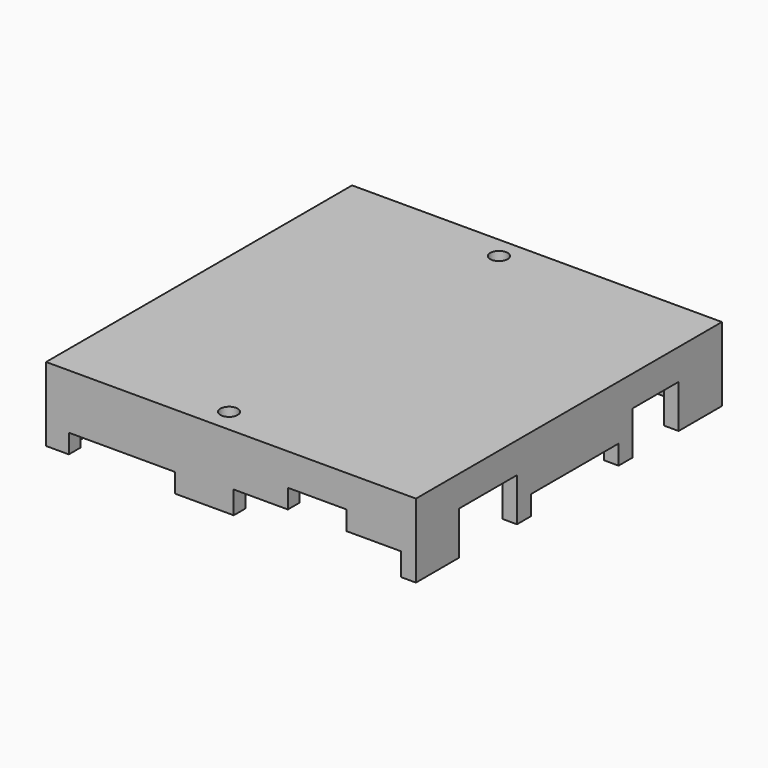
from build123d import *

# Parameters (mm, degrees)
EXTRUDE024_DEPTH = 8
EXTRUDE023_DEPTH = 10
SKETCH017_W      = 8.15
SKETCH017_H      = 2.65
EXTRUDE013_DEPTH = 2
SKETCH016_R      = 1.2
EXTRUDE012_DEPTH = 10
SKETCH010_W      = 14.7
SKETCH010_H      = 2.65
SKETCH010_W_2    = 23.15
SKETCH010_H_2    = 3.15
EXTRUDE006_DEPTH = 53
SKETCH011_W      = 15.2
SKETCH011_H      = 2.7
EXTRUDE007_DEPTH = 51.25
SKETCH009_W      = 51.25
SKETCH009_H      = 53
SKETCH009_W_2    = 47.25
SKETCH009_H_2    = 49
EXTRUDE004_DEPTH = 10
SKETCH008_W      = 51.25
SKETCH008_H      = 53
EXTRUDE003_DEPTH = 2
SKETCH028_W      = 5
SKETCH028_H      = 5
EXTRUDE025_DEPTH = 5


with BuildPart() as cuts003:
    # Sketch027 → Extrude024 (new body)
    with BuildSketch(Plane.XZ):
        with BuildLine():
            Line((49.15, 2), (53.120454, 2))
            ThreePointArc((53.120454, 2), (52.24615, 3.831644), (51.25, 5.59998))
            Line((51.25, 8), (51.25, 5.59998))
            Line((51.25, 8), (49.15, 8))
            Line((49.15, 8), (49.15, 2))
        make_face()
    extrude(amount=-EXTRUDE024_DEPTH)


with BuildPart() as cuts003_1:
    # Extrude024 placement: moved
    add(cuts003.part.moved(Location((0, 37.5, 0))))


with BuildPart() as topcut001:
    # Sketch026 → Extrude023 (new body)
    with BuildSketch(Plane.XZ):
        with BuildLine():
            Line((49.15, 2), (53.120454, 2))
            ThreePointArc((53.120454, 2), (52.24615, 3.831644), (51.25, 5.59998))
            Line((51.25, 8), (51.25, 5.59998))
            Line((51.25, 8), (49.15, 8))
            Line((49.15, 8), (49.15, 2))
        make_face()
    extrude(amount=-EXTRUDE023_DEPTH)


with BuildPart() as topcut001_1:
    # Extrude023 placement: moved
    add(topcut001.part.moved(Location((0, 7.5, 0))))

    # Fusion005: union cuts003
    add(cuts003_1.part)


with BuildPart() as extrude013:
    # Sketch017 → Extrude013 (new body)
    with BuildSketch(Plane.XZ):
        with Locations((37.575, 6.475)):
            Rectangle(SKETCH017_W, SKETCH017_H)
    extrude(amount=-EXTRUDE013_DEPTH)


with BuildPart() as topcut:
    # Sketch016 → Extrude012 (new body)
    with BuildSketch(Plane.XY):
        with Locations((22.75, 50)):
            Circle(SKETCH016_R)
        with Locations((22.75, 3.25)):
            Circle(SKETCH016_R)
    extrude(amount=-EXTRUDE012_DEPTH)


with BuildPart() as topcut_1:
    # Extrude012 placement: moved
    add(topcut.part.moved(Location((0, 0, 12.25))))


with BuildPart() as topcuts:
    # Sketch010 → Extrude006 (new body)
    with BuildSketch(Plane.XZ):
        with Locations((10.5, 3.325)):
            Rectangle(SKETCH010_W, SKETCH010_H)
        with Locations((37.575, 3.575)):
            Rectangle(SKETCH010_W_2, SKETCH010_H_2)
    extrude(amount=-EXTRUDE006_DEPTH)


with BuildPart() as fusion001:
    # Sketch011 → Extrude007 (new body)
    with BuildSketch(Plane.YZ):
        with Locations((27.5, 3.35)):
            Rectangle(SKETCH011_W, SKETCH011_H)
    extrude(amount=EXTRUDE007_DEPTH)

    # Fusion001: union topCuts
    add(topcuts.part)


with BuildPart() as top:
    # Sketch009 → Extrude004 (new body)
    with BuildSketch(Plane.XY):
        with Locations((25.625, 26.5)):
            Rectangle(SKETCH009_W, SKETCH009_H)
        with Locations((25.625, 26.5)):
            Rectangle(SKETCH009_W_2, SKETCH009_H_2, mode=Mode.SUBTRACT)
    extrude(amount=EXTRUDE004_DEPTH)


with BuildPart() as top_1:
    # Extrude004 placement: moved
    add(top.part.moved(Location((0, 0, 2))))


with BuildPart() as top005:
    # Sketch008 → Extrude003 (new body)
    with BuildSketch(Plane.XY):
        with Locations((25.625, 26.5)):
            Rectangle(SKETCH008_W, SKETCH008_H)
    extrude(amount=EXTRUDE003_DEPTH)


with BuildPart() as top005_1:
    # Extrude003 placement: moved
    add(top005.part.moved(Location((0, 0, 10.25))))

    # Fusion: union top
    add(top_1.part)

    # Cut001: cut Fusion001
    add(fusion001.part, mode=Mode.SUBTRACT)

    # Cut003: cut topCut
    add(topcut_1.part, mode=Mode.SUBTRACT)

    # Cut005: cut Extrude013
    add(extrude013.part, mode=Mode.SUBTRACT)


with BuildPart() as top008:
    # Sketch028 → Extrude025 (new body)
    with BuildSketch(Plane.XY.offset(10.25)):
        with Locations((28.65, 48.5)):
            Rectangle(SKETCH028_W, SKETCH028_H)
        with Locations((46.75, 48.5)):
            Rectangle(SKETCH028_W, SKETCH028_H)
    extrude(amount=-EXTRUDE025_DEPTH)

    # Fusion006: union top005
    add(top005_1.part)

    # Cut: cut topCut001
    add(topcut001_1.part, mode=Mode.SUBTRACT)


solid = top008.part
